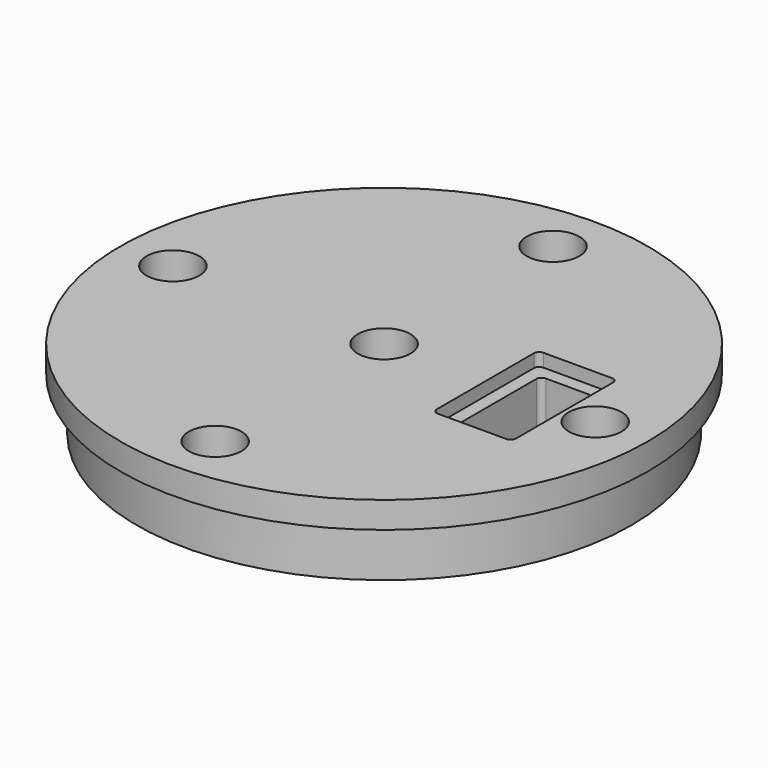
from build123d import *

# Parameters (mm, degrees)
F0_R     = 31.75
F0_R_2   = 3.175
F1_DEPTH = 9.525
F2_R     = 31.75
F2_R_2   = 29.765094
F3_DEPTH = 6.35
F4_R     = 3.175
F5_DEPTH = 9.526
F6_W     = 6.35
F6_H     = 12.7
F7_DEPTH = 25.4
F8_W     = 9.525
F8_H     = 15.875
F9_DEPTH = 1.5748
F10_R    = 0.635


with BuildPart() as f1:
    # F0 (on Top) → F1 (new body)
    with BuildSketch(Plane.XY):
        Circle(F0_R)
        with Locations((0, -25.4)):
            Circle(F0_R_2, mode=Mode.SUBTRACT)
        with Locations((-25.4, 0)):
            Circle(F0_R_2, mode=Mode.SUBTRACT)
        with Locations((25.4, 0)):
            Circle(F0_R_2, mode=Mode.SUBTRACT)
        with Locations((0, 25.4)):
            Circle(F0_R_2, mode=Mode.SUBTRACT)
    extrude(amount=F1_DEPTH)

    # F2 (on face) → F3 (cut)
    with BuildSketch(Plane(origin=(0, 0, 0), x_dir=(1, 0, 0), z_dir=(0, 0, -1))):
        Circle(F2_R)
        Circle(F2_R_2, mode=Mode.SUBTRACT)
    extrude(amount=-F3_DEPTH, mode=Mode.SUBTRACT)

    # F4 (on face) → F5 (cut, through all)
    with BuildSketch(Plane(origin=(0, 0, 0), x_dir=(1, 0, 0), z_dir=(0, 0, -1))):
        Circle(F4_R)
    extrude(amount=-F5_DEPTH, mode=Mode.SUBTRACT)

    # F6 (on face) → F7 (cut)
    with BuildSketch(Plane(origin=(0, 0, 0), x_dir=(1, 0, 0), z_dir=(0, 0, -1))):
        with Locations((16.909514, 0)):
            Rectangle(F6_W, F6_H)
    extrude(amount=-F7_DEPTH, mode=Mode.SUBTRACT)

    # F8 (on face) → F9 (cut)
    with BuildSketch(Plane.XY.offset(9.525)):
        with Locations((16.939783, 0)):
            Rectangle(F8_W, F8_H)
    extrude(amount=-F9_DEPTH, mode=Mode.SUBTRACT)

    # F10
    f10_edges = [f1.edges().sort_by_distance(p)[0] for p in [
        (13.734514, -6.35, 3.9751),
        (13.734514, 6.35, 3.9751),
        (20.084514, -6.35, 3.9751),
        (20.084514, 6.35, 3.9751),
        (21.702283, 7.9375, 8.7376),
        (21.702283, -7.9375, 8.7376),
        (12.177283, -7.9375, 8.7376),
        (12.177283, 7.9375, 8.7376),
    ]]
    fillet(f10_edges, radius=F10_R)


solid = f1.part
